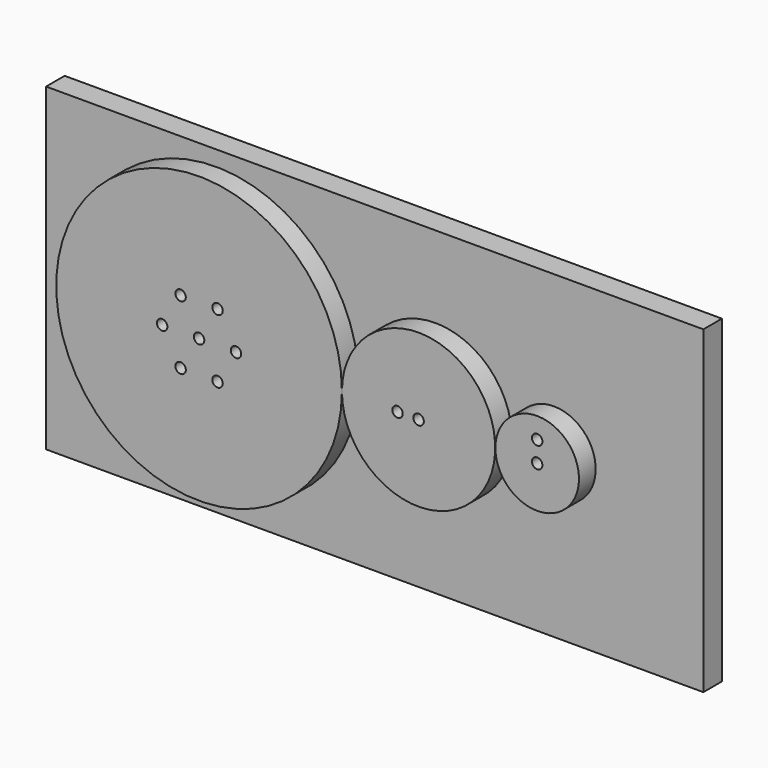
from build123d import *

# Parameters (mm, degrees)
F0_R     = 40.9956
F0_R_2   = 1.5
F1_DEPTH = 6
F2_W     = 188.6204481125
F2_H     = 91.6689150035
F3_DEPTH = 6.66401


with BuildPart() as f1:
    # F0 (on Front) → F1 (new body)
    with BuildSketch(Plane.XZ):
        with Locations((-62.992, 0)):
            Circle(F0_R)
        with Locations((-68.2923400796, -9.1804582301)):
            Circle(F0_R_2, mode=Mode.SUBTRACT)
        with Locations((-57.6916599868, -9.1804582684)):
            Circle(F0_R_2, mode=Mode.SUBTRACT)
        with BuildLine():
            ThreePointArc((-53.8913199146, 0), (-52.3913199018, 1.4999999745), (-50.8913199146, -2.55e-08))
            ThreePointArc((-50.8913199146, -2.55e-08), (-52.3913199274, -1.5000000255), (-53.8913199146, 0))
        make_face(mode=Mode.SUBTRACT)
        with Locations((-73.5926800854, 0)):
            Circle(F0_R_2, mode=Mode.SUBTRACT)
        with Locations((-68.2923400353, 9.1804582556)):
            Circle(F0_R_2, mode=Mode.SUBTRACT)
        with Locations((-62.992, 0)):
            Circle(F0_R_2, mode=Mode.SUBTRACT)
        with Locations((-57.6916599425, 9.1804582428)):
            Circle(F0_R_2, mode=Mode.SUBTRACT)
    extrude(amount=F1_DEPTH)


with BuildPart() as f1b:
    # F0 (on Front) → F1, piece 2 (new body)
    with BuildSketch(Plane.XZ):
        with BuildLine():
            Line((1.5, 0), (21.9964, 0))
            ThreePointArc((21.9964, 0), (0, 21.9964), (-21.9964, 0))
            Line((-21.9964, 0), (-7.5411840677, 0))
            ThreePointArc((-7.5411840677, 0), (-6.0411840677, 1.5), (-4.5411840677, 0))
            Line((-4.5411840677, 0), (-1.5, 0))
            ThreePointArc((-1.5, 0), (0, 1.5), (1.5, 0))
        make_face()
        with BuildLine():
            ThreePointArc((-21.9964, 0), (0, -21.9964), (21.9964, 0))
            Line((21.9964, 0), (1.5, 0))
            ThreePointArc((1.5, 0), (0, -1.5), (-1.5, 0))
            Line((-1.5, 0), (-4.5411840677, 0))
            ThreePointArc((-4.5411840677, 0), (-6.0411840677, -1.5), (-7.5411840677, 0))
            Line((-7.5411840677, 0), (-21.9964, 0))
        make_face()
    extrude(amount=F1_DEPTH)


with BuildPart() as f1c:
    # F0 (on Front) → F1, piece 3 (new body)
    with BuildSketch(Plane.XZ):
        with BuildLine():
            ThreePointArc((46.0248, 0), (34.036, 11.9888), (22.0472, 0))
            ThreePointArc((22.0472, 0), (34.036, -11.9888), (46.0248, 0))
        make_face()
        with BuildLine():
            ThreePointArc((35.536, 0), (34.036, -1.5), (32.536, 0))
            ThreePointArc((32.536, 0), (34.036, 1.5), (35.536, 0))
        make_face(mode=Mode.SUBTRACT)
        with Locations((34.036, 5.9944)):
            Circle(F0_R_2, mode=Mode.SUBTRACT)
        with BuildLine():
            ThreePointArc((46.0248, 0), (34.036, 11.9888), (22.0472, 0))
            ThreePointArc((22.0472, 0), (34.036, -11.9888), (46.0248, 0))
        make_face()
        with BuildLine():
            ThreePointArc((35.536, 0), (34.036, -1.5), (32.536, 0))
            ThreePointArc((32.536, 0), (34.036, 1.5), (35.536, 0))
        make_face(mode=Mode.SUBTRACT)
        with Locations((34.036, 5.9944)):
            Circle(F0_R_2, mode=Mode.SUBTRACT)
    extrude(amount=F1_DEPTH)


with BuildPart() as f3:
    # F2 (on Front) → F3 (new body)
    with BuildSketch(Plane.XZ):
        with Locations((-17.3867791891, -0.4575978965)):
            Rectangle(F2_W, F2_H)
        with BuildLine():
            ThreePointArc((-61.5760172269, 1.4124421355), (-61.143762252, 0.7642101981), (-60.992, 0))
            ThreePointArc((-60.992, 0), (-64.840237748, -0.7642101981), (-61.5760172269, 1.4124421355))
        make_face(mode=Mode.SUBTRACT)
        with BuildLine():
            ThreePointArc((2, 0), (0, -2), (-2, 0))
            ThreePointArc((-2, 0), (-0.7359938163, 1.8596540276), (1.4583131024, 1.3686938648))
            ThreePointArc((1.4583131024, 1.3686938648), (1.8596540276, 0.7359938163), (2, 0))
        make_face(mode=Mode.SUBTRACT)
        with BuildLine():
            ThreePointArc((36.036, 0), (34.036, -2), (32.036, 0))
            ThreePointArc((32.036, 0), (33.3476831661, 1.8778231909), (35.5622199361, 1.2925373134))
            ThreePointArc((35.5622199361, 1.2925373134), (35.9138231909, 0.6883168339), (36.036, 0))
        make_face(mode=Mode.SUBTRACT)
    extrude(amount=-F3_DEPTH)


solid = Compound([f1.part, f1b.part, f1c.part, f3.part])
